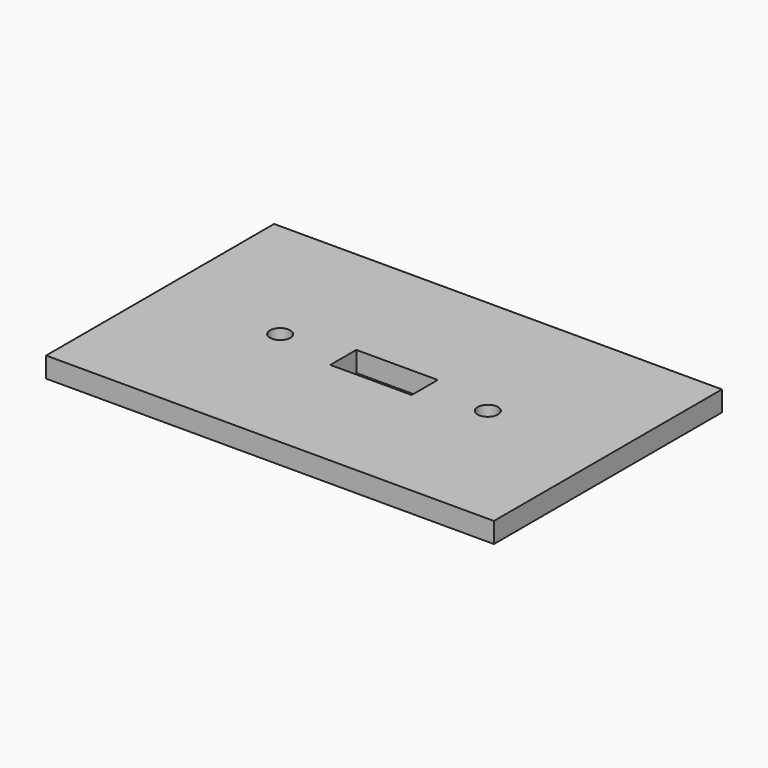
from build123d import *

# Parameters (mm, degrees)
F0_W     = 110
F0_H     = 70
F1_DEPTH = 5
F2_W     = 20
F2_H     = 8
F3_DEPTH = 5.001
F4_R     = 2.5
F5_DEPTH = 5.001
F6_R     = 2.5
F7_DEPTH = 5.001


with BuildPart() as f1:
    # F0 (on Top) → F1 (new body)
    with BuildSketch(Plane.XY):
        Rectangle(F0_W, F0_H)
    extrude(amount=F1_DEPTH)

    # F2 (on face) → F3 (cut, through all)
    with BuildSketch(Plane.XY.offset(5)):
        Rectangle(F2_W, F2_H)
    extrude(amount=-F3_DEPTH, mode=Mode.SUBTRACT)

    # F4 (on face) → F5 (cut, through all)
    with BuildSketch(Plane.XY.offset(5)):
        with Locations((-25.5, 0)):
            Circle(F4_R)
    extrude(amount=-F5_DEPTH, mode=Mode.SUBTRACT)

    # F6 (on face) → F7 (cut, through all)
    with BuildSketch(Plane.XY.offset(5)):
        with Locations((25.5, 0)):
            Circle(F6_R)
    extrude(amount=-F7_DEPTH, mode=Mode.SUBTRACT)


solid = f1.part
